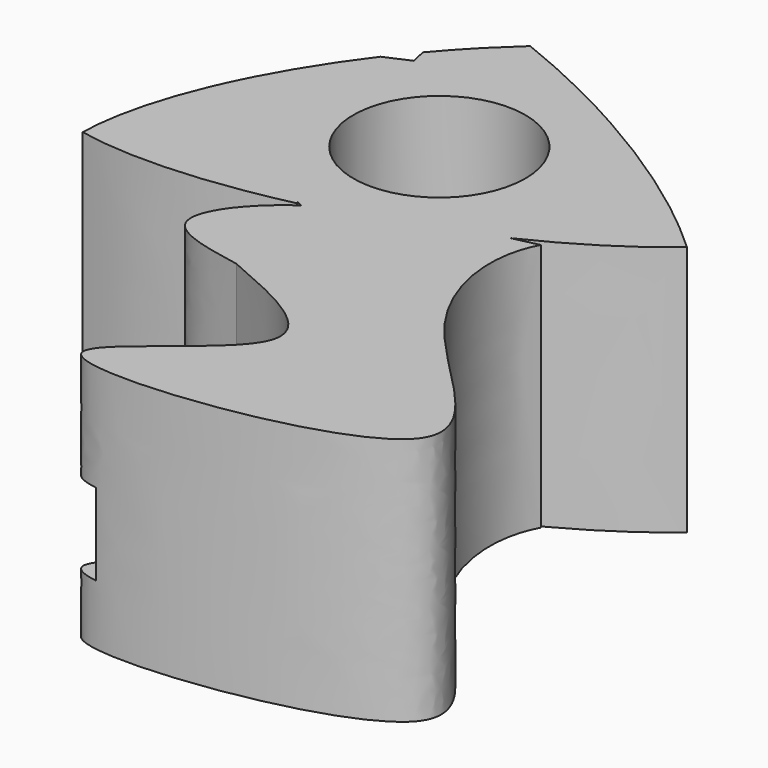
from build123d import *

# Parameters (mm, degrees)
F1_DEPTH = 27.94
F3_DEPTH = 27.686
F4_R     = 9.5671069794
F5_DEPTH = 18.034
F6_W     = 11.8991965428
F6_H     = 9.1083329171
F7_DEPTH = 75.692


with BuildPart() as f1:
    # F0 (on Top) → F1 (new body)
    with BuildSketch(Plane.XY):
        with BuildLine():
            add(Edge.make_bspline(
                [(-11.8252157032, 11.2482961879), (-8.5881588916, -2.6204856692), (-3.1071743426, -15.8045828863)],
                knots=[4.3390958554, 4.3390958554, 4.3390958554, 5.0787252267, 5.0787252267, 5.0787252267], degree=2, weights=[1, 0.9323943421, 1]))
            add(Edge.make_bspline(
                [(-3.1071743426, -15.8045828863), (-2.9347075497, -15.8900047181), (-2.7621268283, -15.9748096821)],
                knots=[1.6810496999, 1.6810496999, 1.6810496999, 1.6898612118, 1.6898612118, 1.6898612118], degree=2, weights=[1, 0.9999902947, 1]))
            add(Edge.make_bspline(
                [(-2.7621268283, -15.9748096821), (4.7396614435, -14.2366810085), (11.8252157032, -11.2482961879)],
                knots=[4.5051182264, 4.5051182264, 4.5051182264, 4.9273402227, 4.9273402227, 4.9273402227], degree=2, weights=[1, 0.9777987126, 1]))
            add(Edge.make_bspline(
                [(11.8252157032, -11.2482961879), (8.5881588916, 2.6204856692), (3.1071743426, 15.8045828863)],
                knots=[1.1975032018, 1.1975032018, 1.1975032018, 1.9371325731, 1.9371325731, 1.9371325731], degree=2, weights=[1, 0.9323943421, 1]))
            add(Edge.make_bspline(
                [(3.1071743426, 15.8045828863), (2.9347075497, 15.8900047181), (2.7621268283, 15.9748096821)],
                knots=[4.8226423535, 4.8226423535, 4.8226423535, 4.8314538654, 4.8314538654, 4.8314538654], degree=2, weights=[1, 0.9999902947, 1]))
            add(Edge.make_bspline(
                [(2.7621268283, 15.9748096821), (-4.7396614435, 14.2366810085), (-11.8252157032, 11.2482961879)],
                knots=[1.3635255728, 1.3635255728, 1.3635255728, 1.7857475691, 1.7857475691, 1.7857475691], degree=2, weights=[1, 0.9777987126, 1]))
        make_face()
        with BuildLine():
            add(Edge.make_bspline(
                [(22.6418183379, 3.7027651677), (13.8428242491, 10.4872759112), (3.1071743426, 15.8045828863)],
                knots=[4.2873053662, 4.2873053662, 4.2873053662, 4.8226423535, 4.8226423535, 4.8226423535], degree=2, weights=[1, 0.9643901624, 1]))
            add(Edge.make_bspline(
                [(11.8252157032, -11.2482961879), (8.5881588916, 2.6204856692), (3.1071743426, 15.8045828863)],
                knots=[1.1975032018, 1.1975032018, 1.1975032018, 1.9371325731, 1.9371325731, 1.9371325731], degree=2, weights=[1, 0.9323943421, 1]))
            add(Edge.make_bspline(
                [(11.8252157032, -11.2482961879), (13.2245406017, -10.6581205809), (14.5765738837, -10.0298310034)],
                knots=[4.9273402227, 4.9273402227, 4.9273402227, 5.0119355328, 5.0119355328, 5.0119355328], degree=2, weights=[1, 0.9991055875, 1]))
            add(Edge.make_bspline(
                [(14.5765738837, -10.0298310034), (19.6531694856, -3.341006685), (22.6418183379, 3.7027651677)],
                knots=[4.743267075, 4.743267075, 4.743267075, 5.2084036719, 5.2084036719, 5.2084036719], degree=2, weights=[1, 0.9730776701, 1]))
        make_face()
        with BuildLine():
            add(Edge.make_bspline(
                [(-14.5765738837, 10.0298310034), (-19.6531694856, 3.341006685), (-22.6418183379, -3.7027651677)],
                knots=[1.6016744214, 1.6016744214, 1.6016744214, 2.0668110183, 2.0668110183, 2.0668110183], degree=2, weights=[1, 0.9730776701, 1]))
            add(Edge.make_bspline(
                [(-22.6418183379, -3.7027651677), (-13.8428242491, -10.4872759112), (-3.1071743426, -15.8045828863)],
                knots=[1.1457127126, 1.1457127126, 1.1457127126, 1.6810496999, 1.6810496999, 1.6810496999], degree=2, weights=[1, 0.9643901624, 1]))
            add(Edge.make_bspline(
                [(-11.8252157032, 11.2482961879), (-8.5881588916, -2.6204856692), (-3.1071743426, -15.8045828863)],
                knots=[4.3390958554, 4.3390958554, 4.3390958554, 5.0787252267, 5.0787252267, 5.0787252267], degree=2, weights=[1, 0.9323943421, 1]))
            add(Edge.make_bspline(
                [(-11.8252157032, 11.2482961879), (-13.2245406017, 10.6581205809), (-14.5765738837, 10.0298310034)],
                knots=[1.7857475691, 1.7857475691, 1.7857475691, 1.8703428792, 1.8703428792, 1.8703428792], degree=2, weights=[1, 0.9991055875, 1]))
        make_face()
        with BuildLine():
            add(Edge.make_bspline(
                [(28.5677273445, -1.2887388131), (25.8628411513, 1.2191785596), (22.6418183379, 3.7027651677)],
                knots=[4.0871882978, 4.0871882978, 4.0871882978, 4.2873053662, 4.2873053662, 4.2873053662], degree=2, weights=[1, 0.9949983199, 1]))
            add(Edge.make_bspline(
                [(14.5765738837, -10.0298310034), (19.6531694856, -3.341006685), (22.6418183379, 3.7027651677)],
                knots=[4.743267075, 4.743267075, 4.743267075, 5.2084036719, 5.2084036719, 5.2084036719], degree=2, weights=[1, 0.9730776701, 1]))
            add(Edge.make_bspline(
                [(14.5765738837, -10.0298310034), (23.1122310241, -6.0633129524), (28.5677273445, -1.2887388131)],
                knots=[5.0119355328, 5.0119355328, 5.0119355328, 5.5341228529, 5.5341228529, 5.5341228529], degree=2, weights=[1, 0.9661082415, 1]))
        make_face()
        with BuildLine():
            add(Edge.make_bspline(
                [(2.7621268283, 15.9748096821), (-1.4696637557, 18.0542820885), (-5.6675450319, 19.7171910434)],
                knots=[4.8314538654, 4.8314538654, 4.8314538654, 5.0466844851, 5.0466844851, 5.0466844851], degree=2, weights=[1, 0.9942150588, 1]))
            add(Edge.make_bspline(
                [(-5.6675450319, 19.7171910434), (-9.1076845511, 16.6476253316), (-12.2169817327, 12.9733242176)],
                knots=[1.2248715308, 1.2248715308, 1.2248715308, 1.4952331634, 1.4952331634, 1.4952331634], degree=2, weights=[1, 0.9908769789, 1]))
            add(Edge.make_bspline(
                [(-12.2169817327, 12.9733242176), (-12.028201955, 12.1179664501), (-11.8252157032, 11.2482961879)],
                knots=[4.2904886615, 4.2904886615, 4.2904886615, 4.3390958554, 4.3390958554, 4.3390958554], degree=2, weights=[1, 0.9997046821, 1]))
            add(Edge.make_bspline(
                [(2.7621268283, 15.9748096821), (-4.7396614435, 14.2366810085), (-11.8252157032, 11.2482961879)],
                knots=[1.3635255728, 1.3635255728, 1.3635255728, 1.7857475691, 1.7857475691, 1.7857475691], degree=2, weights=[1, 0.9777987126, 1]))
        make_face()
        with BuildLine():
            add(Edge.make_bspline(
                [(-2.7621268283, -15.9748096821), (4.7396614435, -14.2366810085), (11.8252157032, -11.2482961879)],
                knots=[4.5051182264, 4.5051182264, 4.5051182264, 4.9273402227, 4.9273402227, 4.9273402227], degree=2, weights=[1, 0.9777987126, 1]))
            add(Edge.make_bspline(
                [(-2.7621268283, -15.9748096821), (1.4696637557, -18.0542820885), (5.6675450319, -19.7171910434)],
                knots=[1.6898612118, 1.6898612118, 1.6898612118, 1.9050918315, 1.9050918315, 1.9050918315], degree=2, weights=[1, 0.9942150588, 1]))
            add(Edge.make_bspline(
                [(5.6675450319, -19.7171910434), (9.1076845511, -16.6476253316), (12.2169817327, -12.9733242176)],
                knots=[4.3664641844, 4.3664641844, 4.3664641844, 4.636825817, 4.636825817, 4.636825817], degree=2, weights=[1, 0.9908769789, 1]))
            add(Edge.make_bspline(
                [(12.2169817327, -12.9733242176), (12.028201955, -12.1179664501), (11.8252157032, -11.2482961879)],
                knots=[1.1488960079, 1.1488960079, 1.1488960079, 1.1975032018, 1.1975032018, 1.1975032018], degree=2, weights=[1, 0.9997046821, 1]))
        make_face()
        with BuildLine():
            add(Edge.make_bspline(
                [(-22.6418183379, -3.7027651677), (-13.8428242491, -10.4872759112), (-3.1071743426, -15.8045828863)],
                knots=[1.1457127126, 1.1457127126, 1.1457127126, 1.6810496999, 1.6810496999, 1.6810496999], degree=2, weights=[1, 0.9643901624, 1]))
            add(Edge.make_bspline(
                [(-22.6418183379, -3.7027651677), (-25.7822013167, -11.1041503174), (-25.9149369323, -17.2101701874)],
                knots=[2.0668110183, 2.0668110183, 2.0668110183, 2.5546580763, 2.5546580763, 2.5546580763], degree=2, weights=[1, 0.9703978677, 1]))
            add(Edge.make_bspline(
                [(-25.9149369323, -17.2101701874), (-16.6669507807, -19.1533196449), (-3.0122584155, -16.032372268)],
                knots=[3.7537294187, 3.7537294187, 3.7537294187, 4.4979706207, 4.4979706207, 4.4979706207], degree=2, weights=[1, 0.9315584078, 1]))
            add(Edge.make_bspline(
                [(-3.1071743426, -15.8045828863), (-3.0597508007, -15.9186566591), (-3.0122584155, -16.032372268)],
                knots=[5.0787252267, 5.0787252267, 5.0787252267, 5.0854333887, 5.0854333887, 5.0854333887], degree=2, weights=[1, 0.9999943751, 1]))
        make_face()
    extrude(amount=-F1_DEPTH)

    # F2 (on Top) → F3 (join)
    with BuildSketch(Plane.XY):
        with BuildLine():
            add(Edge.make_bspline(
                [(0, -28.2049644738), (-3.8010814439, -27.4929009637), (-11.597230854, -26.0324340948), (-2.6312370758, -13.6321833913), (10.5201266278, -10.6895109072), (18.4195674956, -8.9219780639)],
                knots=[0, 0, 0, 0, 0.2753379476, 0.5647276464, 1, 1, 1, 1], degree=3))
            add(Edge.make_bspline(
                [(0, -28.2049644738), (6.4317787317, -30.9696664483), (19.6760313142, -36.6627123059), (-16.6367352666, -55.3502627996), (49.2184286233, -47.3476047263), (17.3274734647, -27.0900880191), (16.1585480017, -13.0200475945), (18.4195674956, -8.9219780639)],
                knots=[0, 0, 0, 0, 0.148510721, 0.3058117486, 0.5293446593, 0.7088353874, 0.8695660661, 0.8695660661, 0.8695660661, 0.8695660661], degree=3))
        make_face()
    extrude(amount=-F3_DEPTH)

    # F4 (on Top) → F5 (cut)
    with BuildSketch(Plane.XY):
        Circle(F4_R)
    extrude(amount=-F5_DEPTH, mode=Mode.SUBTRACT)

    # F6 (on Front) → F7 (cut, symmetric)
    with BuildSketch(Plane.XZ):
        with Locations((-3.4264405258, -16.4408991113)):
            Rectangle(F6_W, F6_H)
    extrude(amount=F7_DEPTH, both=True, mode=Mode.SUBTRACT)


solid = f1.part
